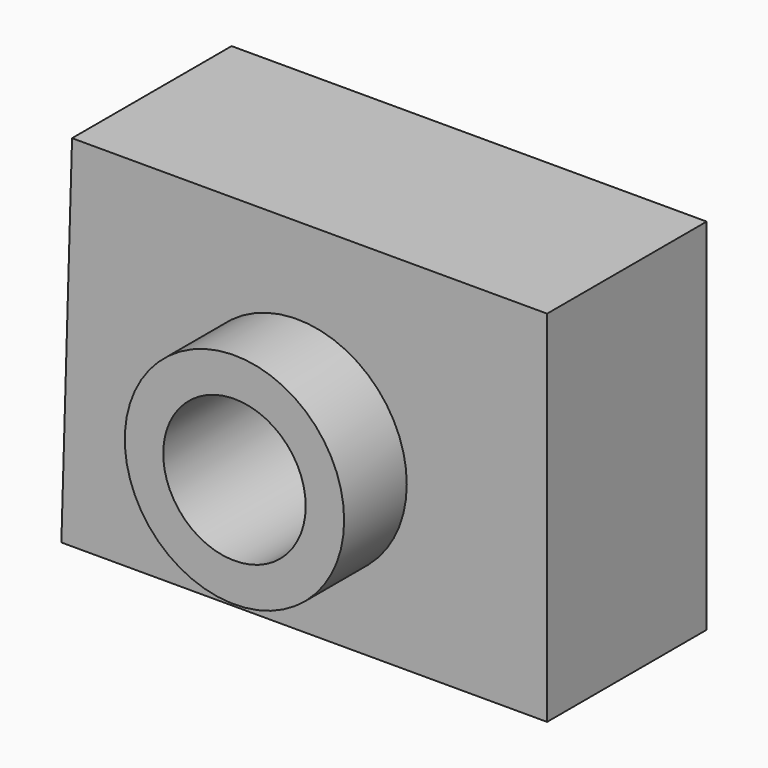
from build123d import *

# Parameters (mm, degrees)
F0_R     = 9.708725
F1_DEPTH = 27.178
F2_R     = 14.948312
F2_R_2   = 9.708725
F3_DEPTH = 10.668


with BuildPart() as f1:
    # F0 (on Front) → F1 (new body)
    with BuildSketch(Plane.XZ):
        Polygon((34.074262, 26.681835), (-30.666837, 26.681835), (-32.127164, -22.300858), (34.074262, -22.300858), align=None)
        Circle(F0_R, mode=Mode.SUBTRACT)
    extrude(amount=F1_DEPTH)

    # F2 (on face) → F3 (join)
    with BuildSketch(Plane.XZ.offset(27.178)):
        Circle(F2_R)
        Circle(F2_R_2, mode=Mode.SUBTRACT)
    extrude(amount=F3_DEPTH)


solid = f1.part
